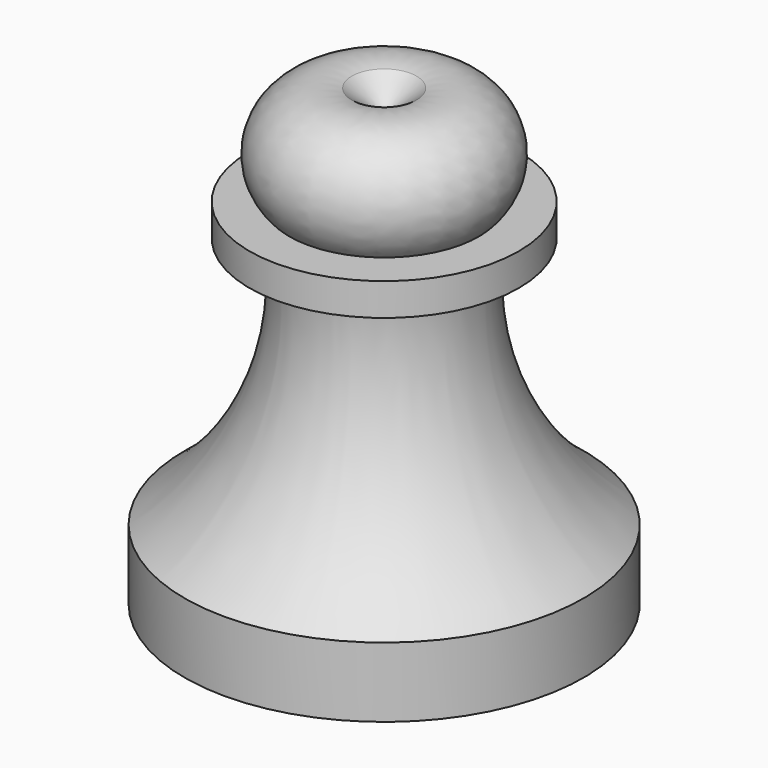
from build123d import *


with BuildPart() as f1:
    # F0 (on Right) → F1 (revolve)
    with BuildSketch(Plane.YZ):
        with BuildLine():
            Line((-29.843854, 0), (0, 0))
            Line((0, 0), (0, 64.164288))
            Line((0, 64.164288), (-4.849625, 67.894772))
            ThreePointArc((-4.849625, 67.894772), (-15.301636, 64.051876), (-14.175827, 52.972846))
            Line((-14.175827, 52.972846), (-20.144602, 52.972846))
            Line((-20.144602, 52.972846), (-20.144602, 48.123218))
            Line((-20.144602, 48.123218), (-14.175827, 48.123218))
            ThreePointArc((-14.175827, 48.123218), (-16.847024, 27.13737), (-29.843854, 10.445351))
            Line((-29.843854, 10.445351), (-29.843854, 0))
        make_face()
    revolve(axis=Axis((0, 0, 32.082144), (0, 0, 1)))


solid = f1.part
